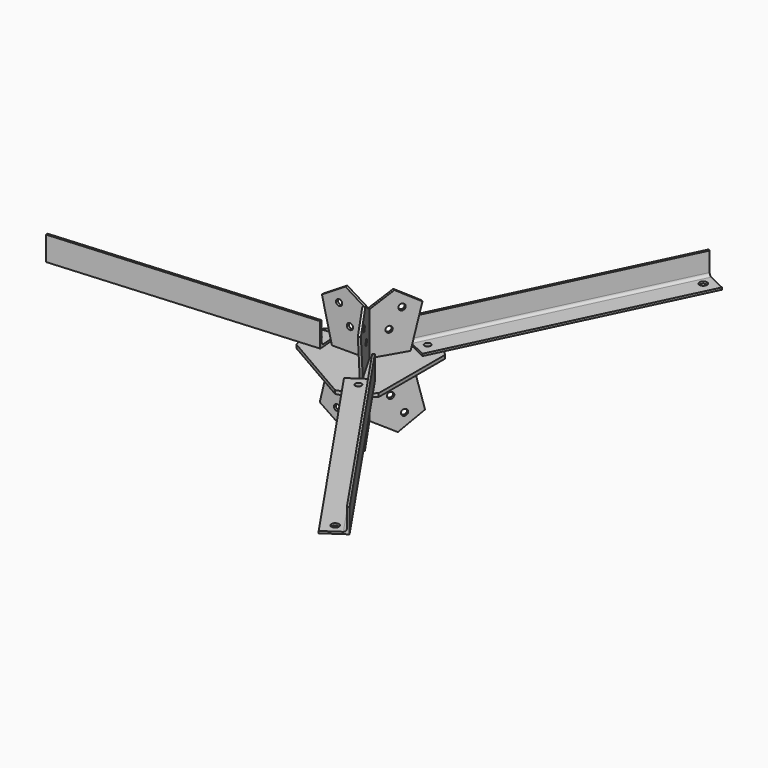
from build123d import *

# Parameters (mm, degrees)
F1_DEPTH  = 10
F2_R      = 9
F3_DEPTH  = 25
F5_R      = 9
F6_DEPTH  = 3.5
F7_COUNT  = 3
F9_DEPTH  = 160
F15_D     = 18
F15_DEPTH = 22
F15_TIP   = 5.4077455712
F16_D     = 22
F16_DEPTH = 22
F16_TIP   = 6.6094668093
F17_COUNT = 3
F18_R     = 9
F19_DEPTH = 3.5
F20_COUNT = 3
F22_DEPTH = 125


with BuildPart() as f1:
    # F0 (on Top) → F1 (new body)
    with BuildSketch(Plane.XY):
        with BuildLine():
            Line((-167.7050983125, -50), (40.551278967, -170.2368754828))
            ThreePointArc((40.551278967, -170.2368754828), (87.5, -151.5544456623), (127.1538193455, -120.2368754828))
            Line((127.1538193455, -120.2368754828), (127.1538193455, 120.2368754828))
            ThreePointArc((127.1538193455, 120.2368754828), (87.5, 151.5544456623), (40.551278967, 170.2368754828))
            Line((40.551278967, 170.2368754828), (-167.7050983125, 50))
            ThreePointArc((-167.7050983125, 50), (-175, 0), (-167.7050983125, -50))
        make_face()
    extrude(amount=F1_DEPTH)

    # F2 (on face) → F3 (cut)
    with BuildSketch(Plane.XY.offset(10)):
        with Locations((-145, 0)):
            Circle(F2_R)
        with BuildLine():
            ThreePointArc((81.5, 125.5736835487), (68, 133.3679121828), (68, 117.7794549147))
            ThreePointArc((68, 117.7794549147), (77, 117.7794549147), (81.5, 125.5736835487))
        make_face()
        with BuildLine():
            ThreePointArc((81.5, -125.5736835487), (77, -117.7794549147), (68, -117.7794549147))
            ThreePointArc((68, -117.7794549147), (68, -133.3679121828), (81.5, -125.5736835487))
        make_face()
    extrude(amount=-F3_DEPTH, mode=Mode.SUBTRACT)



with BuildPart() as f6:
    # F5 (on Front) → F6 (new body, symmetric)
    with BuildSketch(Plane.XZ):
        Polygon((-2.0207259422, -150), (-2.0207259422, 0), (-102.0207259422, 0), (-137.1844871073, -146.404817768), (-71.0579927121, -191.43021881), align=None)
        with Locations((-87.2367145189, -144.1200828908)):
            Circle(F5_R, mode=Mode.SUBTRACT)
        with Locations((-53.4676637374, -94.5252120944)):
            Circle(F5_R, mode=Mode.SUBTRACT)
    extrude(amount=F6_DEPTH, both=True)


with BuildPart() as f7_1:
    # F7: instance of F6
    add(f6.part.rotate(Axis((0, 0, 10), (0, 0, 1)), 1 * 360 / F7_COUNT))


with BuildPart() as f7_2:
    # F7: instance of F6
    add(f6.part.rotate(Axis((0, 0, 10), (0, 0, 1)), 2 * 360 / F7_COUNT))


with BuildPart() as f1_1:
    add(f1.part)

    add(f6.part)  # F9 merges F6

    add(f7_1.part)  # F9 merges F7_1

    add(f7_2.part)  # F9 merges F7_2
    # F8 (on face) → F9 (join, through all)
    with BuildSketch(Plane.XY.offset(10)):
        Polygon((4.0414518843, 0), (-2.0207259422, 3.5), (-2.0207259422, -3.5), align=None)
    extrude(amount=-F9_DEPTH)



with BuildPart() as f13:
    # F13: sweep along a path in F10
    with BuildLine(Plane.XY.offset(10)) as f13_path:
        Line((-115.0840448901, 2.2440209137), (-864.8775997951, -53.9986232539))
    # F12 (on line) → F13 (sweep)
    with BuildSketch(Plane(origin=(-114.272748968, -8.5716948568, 0), x_dir=(0.0748006971, -0.9971985037, 0), z_dir=(-0.9971985037, -0.0748006971, 0))):
        with BuildLine():
            Line((-45.846101083, 10), (24.153898917, 10))
            Line((24.153898917, 10), (24.153898917, 80))
            Line((24.153898917, 80), (18.153898917, 80))
            Line((18.153898917, 80), (18.153898917, 24))
            ThreePointArc((18.153898917, 24), (15.8107531665, 18.3431457505), (10.153898917, 16))
            Line((10.153898917, 16), (-45.846101083, 16))
            Line((-45.846101083, 16), (-45.846101083, 10))
        make_face()
    sweep(path=f13_path.line)

    # F15
    with Locations(Plane.XY.offset(16)):
        with Locations((-145, 0)):
            Hole(F15_D / 2, depth=F15_DEPTH)
            with Locations((0, 0, -(F15_DEPTH + F15_TIP / 2))):  # 118° drill point
                Cone(0, F15_D / 2, F15_TIP, mode=Mode.SUBTRACT)

    # F16
    with Locations(Plane(origin=(0, 0, 10), x_dir=(1, 0, 0), z_dir=(0, 0, -1))):
        with Locations((-834.9616446851, 51.7546023402)):
            Hole(F16_D / 2, depth=F16_DEPTH)
            with Locations((0, 0, -(F16_DEPTH + F16_TIP / 2))):  # 118° drill point
                Cone(0, F16_D / 2, F16_TIP, mode=Mode.SUBTRACT)


with BuildPart() as f17_1:
    # F17: instance of F13
    add(f13.part.rotate(Axis((0, 0, 10), (0, 0, 1)), 1 * 360 / F17_COUNT))


with BuildPart() as f17_2:
    # F17: instance of F13
    add(f13.part.rotate(Axis((0, 0, 10), (0, 0, 1)), 2 * 360 / F17_COUNT))


with BuildPart() as f19:
    # F18 (on Front) → F19 (new body, symmetric)
    with BuildSketch(Plane.XZ):
        Polygon((-102.0207259422, 10), (-2.0207259422, 10), (-2.0207259422, 135), (-62.7408061591, 172.5245039889), (-130.9099109319, 130.65598175), align=None)
        with Locations((-49.7232710268, 74.9)):
            Circle(F18_R, mode=Mode.SUBTRACT)
        with Locations((-81.1246627059, 126.0268285796)):
            Circle(F18_R, mode=Mode.SUBTRACT)
    extrude(amount=F19_DEPTH, both=True)


with BuildPart() as f20_1:
    # F20: instance of F19
    add(f19.part.rotate(Axis((0, 0, 10), (0, 0, 1)), 1 * 360 / F20_COUNT))


with BuildPart() as f20_2:
    # F20: instance of F19
    add(f19.part.rotate(Axis((0, 0, 10), (0, 0, 1)), 2 * 360 / F20_COUNT))


with BuildPart() as f1_2:
    add(f1_1.part)

    add(f19.part)  # F22 merges F19

    add(f20_1.part)  # F22 merges F20_1

    add(f20_2.part)  # F22 merges F20_2
    # F21 (on face) → F22 (join, through all)
    with BuildSketch(Plane.XY.offset(10)):
        Polygon((-2.0207259422, -3.5), (4.0414518843, 0), (-2.0207259422, 3.5), align=None)
    extrude(amount=F22_DEPTH)


solid = Compound([f13.part, f17_1.part, f17_2.part, f1_2.part])
